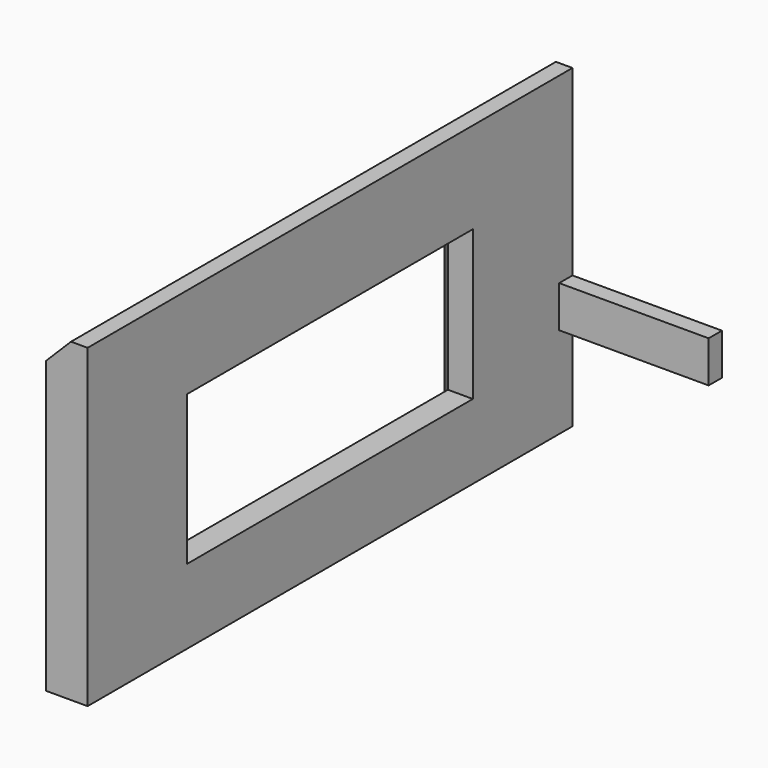
from build123d import *

# Parameters (mm, degrees)
BOX012_W        = 20
BOX012_H        = 2
BOX012_DEPTH    = 5
BOX011_W        = 7
BOX011_H        = 43
BOX011_DEPTH    = 18
BOX010_W        = 5
BOX010_H        = 73
BOX010_DEPTH    = 38
CHAMFER002_SIZE = 3
CHAMFER003_SIZE = 2


with BuildPart() as cube004:
    # Box012 → Box012 (new body)
    with BuildSketch(Plane(origin=(20, -4, 16), x_dir=(1, 0, 0), z_dir=(0, 0, 1))):
        with Locations((10, 1)):
            Rectangle(BOX012_W, BOX012_H)
    extrude(amount=BOX012_DEPTH)


with BuildPart() as obj1:
    # Box011 → Box011 (new body)
    with BuildSketch(Plane(origin=(16, -60, 14), x_dir=(1, 0, 0), z_dir=(0, 0, 1))):
        with Locations((3.5, 21.5)):
            Rectangle(BOX011_W, BOX011_H)
    extrude(amount=BOX011_DEPTH)


with BuildPart() as obj2:
    # Box010 → Box010 (new body)
    with BuildSketch(Plane(origin=(17, -75, 5), x_dir=(1, 0, 0), z_dir=(0, 0, 1))):
        with Locations((2.5, 36.5)):
            Rectangle(BOX010_W, BOX010_H)
    extrude(amount=BOX010_DEPTH)

    # Cut028: cut obj1
    add(obj1.part, mode=Mode.SUBTRACT)

    # Chamfer002
    chamfer002_edges = [obj2.edges().sort_by_distance(p)[0] for p in [
        (17, -38.5, 43),
        (17, -2, 24),
    ]]
    chamfer(chamfer002_edges, length=CHAMFER002_SIZE)

    # Chamfer003
    chamfer003_edges = [obj2.edges().sort_by_distance(p)[0] for p in [
        (17, -38.5, 14),
        (17, -17, 23),
        (17, -38.5, 32),
        (17, -60, 23),
    ]]
    chamfer(chamfer003_edges, length=CHAMFER003_SIZE)

    # Fusion001032: union Cube004
    add(cube004.part)


with BuildPart() as obj2_1:
    # Fusion001032 placement: moved
    add(obj2.part.moved(Location((7, 2, -2))))


solid = obj2_1.part
